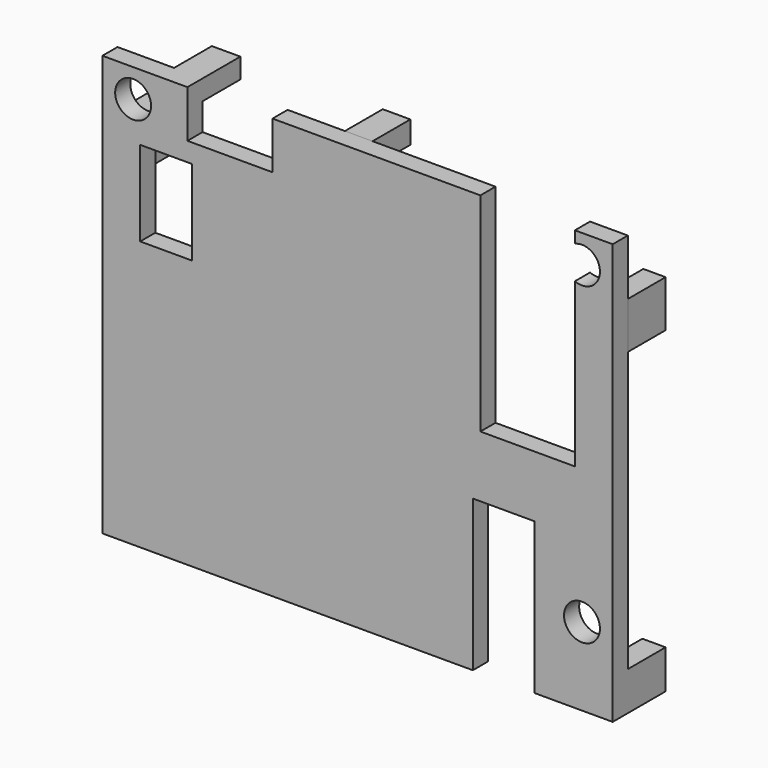
from build123d import *

# Parameters (mm, degrees)
F0_R     = 1.9
F0_W     = 5.5
F0_H     = 9
F1_DEPTH = 2
F2_W     = 2.334564
F2_H     = 5.043705
F2_H_2   = 5.546409
F2_W_2   = 2.573319
F2_H_3   = 2.870157
F2_W_3   = 2.779186
F2_H_4   = 2.767223
F2_W_4   = 2.46357
F2_H_5   = 4.105347
F2_W_5   = 2.360641
F2_H_6   = 4.940772
F2_W_6   = 2.923315
F2_H_7   = 2.368381
F2_W_7   = 3.015692
F2_H_8   = 2.129448
F2_W_8   = 2.052944
F2_H_9   = 3.241269
F3_DEPTH = 5


with BuildPart() as f1:
    # F0 (on Front) → F1 (new body)
    with BuildSketch(Plane.XZ):
        with BuildLine():
            Line((9, 0), (0, 0))
            Line((0, 0), (0, -44.5))
            Line((0, -44.5), (39.2, -44.5))
            Line((39.2, -44.5), (39.2, -28.5))
            Line((39.2, -28.5), (45.7, -28.5))
            Line((45.7, -28.5), (45.7, -44.5))
            Line((45.7, -44.5), (54, -44.5))
            Line((54, -44.5), (54, 0))
            Line((54, 0), (50, 0))
            Line((50, 0), (50, -1.254291))
            ThreePointArc((50, -1.254291), (52.65, -3), (50, -4.745709))
            Line((50, -4.745709), (50, -22))
            Line((50, -22), (40, -22))
            Line((40, -22), (40, 0))
            Line((40, 0), (18, 0))
            Line((18, 0), (18, -5))
            Line((18, -5), (9, -5))
            Line((9, -5), (9, 0))
        make_face()
        with Locations((50.75, -36.25)):
            Circle(F0_R, mode=Mode.SUBTRACT)
        with Locations((6.75, -11.5)):
            Rectangle(F0_W, F0_H, mode=Mode.SUBTRACT)
        with Locations((3.25, -3)):
            Circle(F0_R, mode=Mode.SUBTRACT)
    extrude(amount=-F1_DEPTH)

    # F2 (on face) → F3 (join)
    with BuildSketch(Plane(origin=(0, 2, 0), x_dir=(-1, 0, 0), z_dir=(0, 1, 0))):
        with Locations((-1.167282, -8.434026)):
            Rectangle(F2_W, F2_H)
        with Locations((-1.167282, -41.726795)):
            Rectangle(F2_W, F2_H_2)
        with Locations((-16.796619, -43.064921)):
            Rectangle(F2_W_2, F2_H_3)
        with Locations((-32.957062, -43.116388)):
            Rectangle(F2_W_3, F2_H_4)
        with Locations((-52.768215, -42.447327)):
            Rectangle(F2_W_4, F2_H_5)
        with Locations((-52.819679, -8.382559)):
            Rectangle(F2_W_5, F2_H_6)
        with Locations((-25.527491, -1.18419)):
            Rectangle(F2_W_6, F2_H_7)
        with Locations((-7.492154, -1.064724)):
            Rectangle(F2_W_7, F2_H_8)
        with Locations((-48.154229, -32.257447)):
            Rectangle(F2_W_8, F2_H_9)
    extrude(amount=F3_DEPTH)


solid = f1.part
